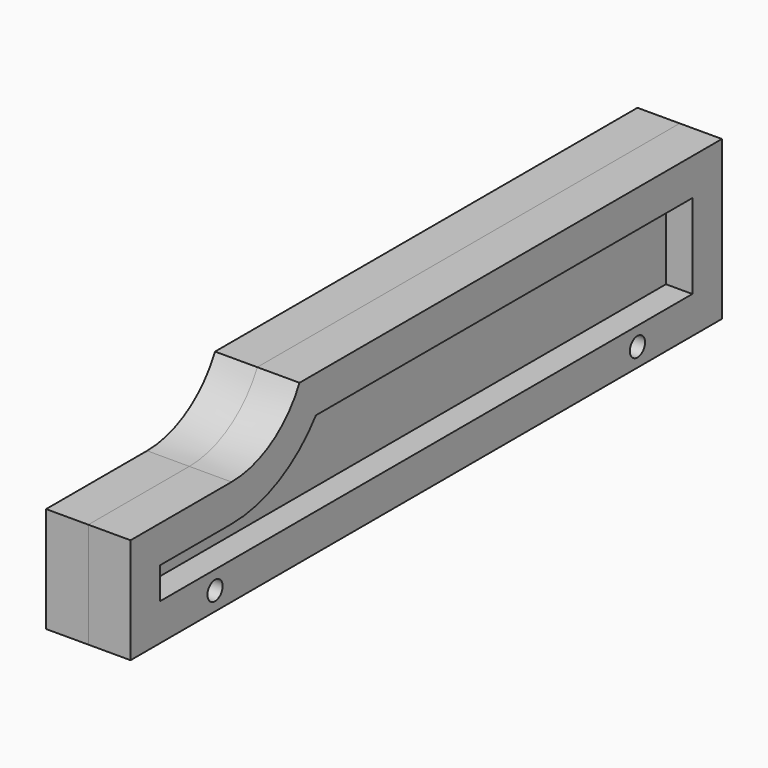
from build123d import *

# Parameters (mm, degrees)
F1_DEPTH = 3
F3_DEPTH = 5
F4_R     = 1.8
F5_DEPTH = 8.001
F6_R     = 1.8
F7_DEPTH = 10


with BuildPart() as f1:
    # F0 (on Right) → F1 (new body)
    with BuildSketch(Plane.YZ):
        with BuildLine():
            Line((-140, 0), (0, 0))
            Line((0, 0), (0, 30))
            Line((0, 30), (-100, 30))
            ThreePointArc((-100, 30), (-106.615398, 22.703773), (-116.085774, 20))
            Line((-116.085774, 20), (-140, 20))
            Line((-140, 20), (-140, 0))
        make_face()
    extrude(amount=F1_DEPTH)

    # F2 (on face) → F3 (join)
    with BuildSketch(Plane.YZ.offset(3)):
        with BuildLine():
            Line((-140, 20), (-140, 0))
            Line((-140, 0), (0, 0))
            Line((0, 0), (0, 30))
            Line((0, 30), (-100, 30))
            ThreePointArc((-100, 30), (-106.615398, 22.703773), (-116.085774, 20))
            Line((-116.085774, 20), (-140, 20))
        make_face()
        with BuildLine():
            Line((-7, 7), (-133, 7))
            Line((-133, 7), (-133, 13))
            Line((-133, 13), (-116.085774, 13))
            ThreePointArc((-116.085774, 13), (-104.919395, 15.63971), (-96.116995, 23))
            Line((-96.116995, 23), (-7, 23))
            Line((-7, 23), (-7, 7))
        make_face(mode=Mode.SUBTRACT)
    extrude(amount=F3_DEPTH)

    # F4 (on face) → F5 (cut, through all)
    with BuildSketch(Plane.YZ.offset(8)):
        with Locations((-20, 3.5)):
            Circle(F4_R)
        with Locations((-120, 3.5)):
            Circle(F4_R)
    extrude(amount=-F5_DEPTH, mode=Mode.SUBTRACT)

    # F6 (on face) → F7 (cut)
    with BuildSketch(Plane(origin=(0, 0, 0), x_dir=(-1, 0, 0), z_dir=(0, 1, 0))):
        with Locations((-4, 26.5)):
            Circle(F6_R)
    extrude(amount=-F7_DEPTH, mode=Mode.SUBTRACT)


with BuildPart() as f8_1:
    # F8: instance of F1
    add(f1.part.mirror(Plane.YZ))


solid = Compound([f1.part, f8_1.part])
